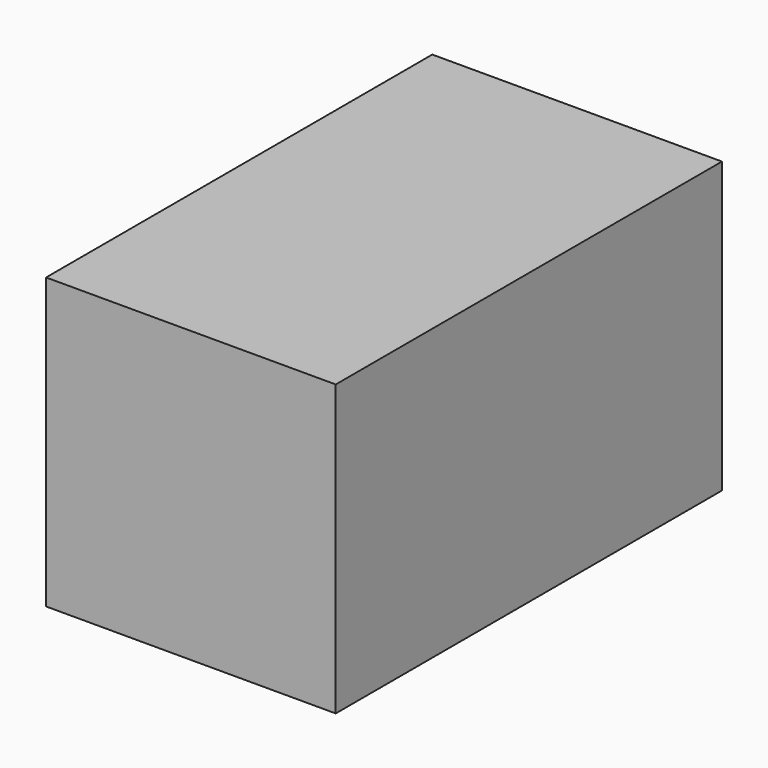
from build123d import *

# Parameters (mm, degrees)
F0_W     = 30
F0_H     = 30
F0_R     = 3.5
F0_R_2   = 3
F1_DEPTH = 50


with BuildPart() as f1:
    # F0 (on Front) → F1 (new body)
    with BuildSketch(Plane.XZ):
        with Locations((-1.1622245609, -0.8481781135)):
            Rectangle(F0_W, F0_H)
        with BuildLine():
            Line((-13.8210662203, -10.8358568401), (-8.2036473316, -5.1398402471))
            ThreePointArc((-8.2036473316, -5.1398402471), (-5.3752884611, -5.120190821), (-5.355639035, -7.9485496914))
            Line((-5.355639035, -7.9485496914), (-10.9730579238, -13.6445662845))
            ThreePointArc((-10.9730579238, -13.6445662845), (-13.8014167942, -13.6642157105), (-13.8210662203, -10.8358568401))
        make_face(mode=Mode.SUBTRACT)
        with BuildLine():
            ThreePointArc((3.0311899132, -7.9485496914), (3.0508393392, -5.120190821), (5.8791982097, -5.1398402471))
            Line((5.8791982097, -5.1398402471), (11.4966170985, -10.8358568401))
            ThreePointArc((11.4966170985, -10.8358568401), (11.4769676724, -13.6642157105), (8.6486088019, -13.6445662845))
            Line((8.6486088019, -13.6445662845), (3.0311899132, -7.9485496914))
        make_face(mode=Mode.SUBTRACT)
        with Locations((-1.1622245609, -0.8481781135)):
            Circle(F0_R, mode=Mode.SUBTRACT)
        with BuildLine():
            ThreePointArc((-5.355639035, 6.2521934645), (-5.3752884611, 3.423834594), (-8.2036473316, 3.4434840201))
            Line((-8.2036473316, 3.4434840201), (-13.8210662203, 9.1395006131))
            ThreePointArc((-13.8210662203, 9.1395006131), (-13.8014167942, 11.9678594836), (-10.9730579238, 11.9482100575))
            Line((-10.9730579238, 11.9482100575), (-5.355639035, 6.2521934645))
        make_face(mode=Mode.SUBTRACT)
        with BuildLine():
            Line((3.0311899132, 6.2521934645), (8.6486088019, 11.9482100575))
            ThreePointArc((8.6486088019, 11.9482100575), (11.4769676724, 11.9678594836), (11.4966170985, 9.1395006131))
            Line((11.4966170985, 9.1395006131), (5.8791982097, 3.4434840201))
            ThreePointArc((5.8791982097, 3.4434840201), (3.0508393392, 3.423834594), (3.0311899132, 6.2521934645))
        make_face(mode=Mode.SUBTRACT)
        with BuildLine():
            Line((11.4966170985, -10.8358568401), (5.8791982097, -5.1398402471))
            ThreePointArc((5.8791982097, -5.1398402471), (3.0508393392, -5.120190821), (3.0311899132, -7.9485496914))
            Line((3.0311899132, -7.9485496914), (8.6486088019, -13.6445662845))
            ThreePointArc((8.6486088019, -13.6445662845), (11.4769676724, -13.6642157105), (11.4966170985, -10.8358568401))
        make_face()
        with BuildLine():
            ThreePointArc((11.4966170985, 9.1395006131), (11.4769676724, 11.9678594836), (8.6486088019, 11.9482100575))
            Line((8.6486088019, 11.9482100575), (3.0311899132, 6.2521934645))
            ThreePointArc((3.0311899132, 6.2521934645), (3.0508393392, 3.423834594), (5.8791982097, 3.4434840201))
            Line((5.8791982097, 3.4434840201), (11.4966170985, 9.1395006131))
        make_face()
        with BuildLine():
            Line((-13.8210662203, 9.1395006131), (-8.2036473316, 3.4434840201))
            ThreePointArc((-8.2036473316, 3.4434840201), (-5.3752884611, 3.423834594), (-5.355639035, 6.2521934645))
            Line((-5.355639035, 6.2521934645), (-10.9730579238, 11.9482100575))
            ThreePointArc((-10.9730579238, 11.9482100575), (-13.8014167942, 11.9678594836), (-13.8210662203, 9.1395006131))
        make_face()
        with BuildLine():
            ThreePointArc((-5.355639035, -7.9485496914), (-5.3752884611, -5.120190821), (-8.2036473316, -5.1398402471))
            Line((-8.2036473316, -5.1398402471), (-13.8210662203, -10.8358568401))
            ThreePointArc((-13.8210662203, -10.8358568401), (-13.8014167942, -13.6642157105), (-10.9730579238, -13.6445662845))
            Line((-10.9730579238, -13.6445662845), (-5.355639035, -7.9485496914))
        make_face()
        with Locations((-1.1622245609, -0.8481781135)):
            Circle(F0_R)
        with Locations((-1.1622245609, -0.8481781135)):
            Circle(F0_R_2, mode=Mode.SUBTRACT)
        with Locations((-1.1622245609, -0.8481781135)):
            Circle(F0_R_2)
    extrude(amount=F1_DEPTH)


solid = f1.part
